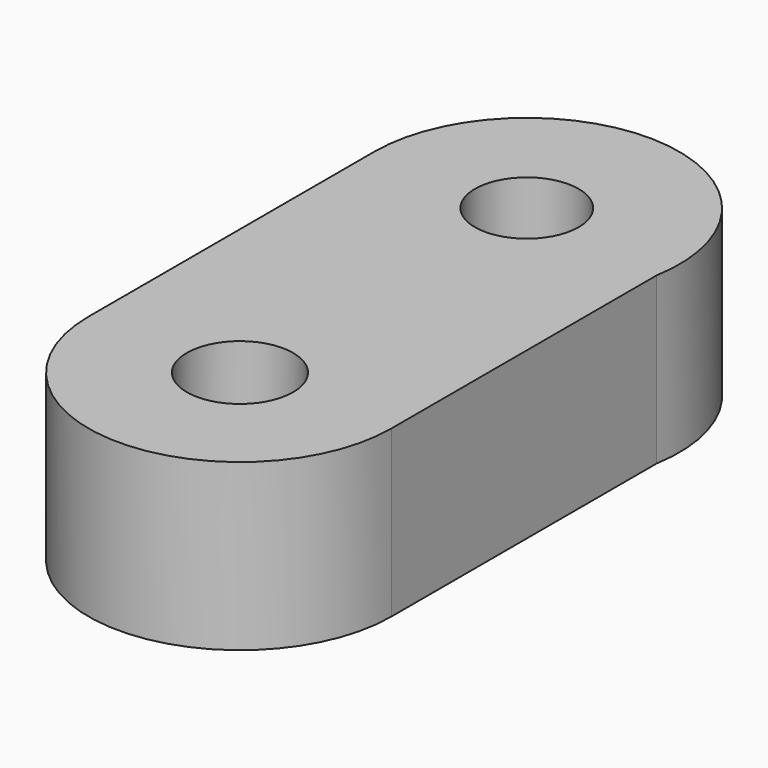
from build123d import *

# Parameters (mm, degrees)
F0_R     = 0.963206
F0_R_2   = 0.939567
F1_DEPTH = 3


with BuildPart() as f1:
    # F0 (on Top) → F1 (new body)
    with BuildSketch(Plane.XY):
        with BuildLine():
            ThreePointArc((2.722689, 2.87395), (0.235749, 6.096573), (-2.762921, 3.343729))
            Line((-2.762921, 3.343729), (-2.762921, -3.12605))
            ThreePointArc((-2.762921, -3.12605), (-0.020116, -5.868855), (2.722689, -3.12605))
            Line((2.722689, -3.12605), (2.722689, 2.87395))
        make_face()
        with Locations((-0.020116, -3.12605)):
            Circle(F0_R, mode=Mode.SUBTRACT)
        with Locations((0, 3.343729)):
            Circle(F0_R_2, mode=Mode.SUBTRACT)
    extrude(amount=F1_DEPTH)


solid = f1.part
